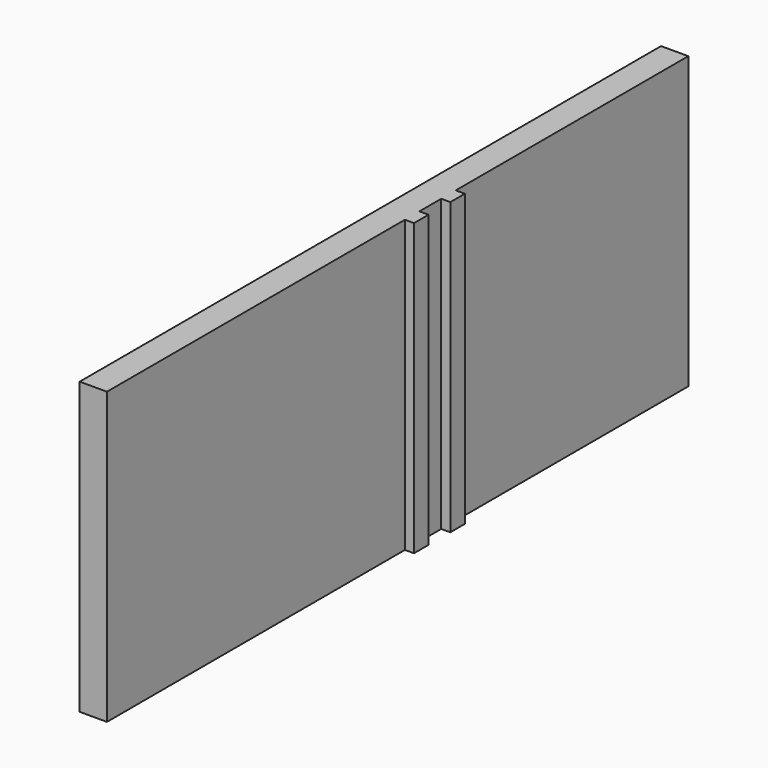
from build123d import *

# Parameters (mm, degrees)
F0_W     = 203.2
F0_H     = 203.2
F0_W_2   = 19.05
F0_W_3   = 12.7
F0_W_4   = 260.35
F1_DEPTH = 19.05
F2_DEPTH = 6.35


with BuildPart() as f1:
    # F0 (on Right) → F1 (new body)
    with BuildSketch(Plane.YZ):
        with Locations((152.4, 0)):
            Rectangle(F0_W, F0_H)
        with Locations((28.575, 0)):
            Rectangle(F0_W_2, F0_H)
        with Locations((12.7, 0)):
            Rectangle(F0_W_3, F0_H)
        with Locations((-123.825, 0)):
            Rectangle(F0_W_4, F0_H)
        with Locations((44.45, 0)):
            Rectangle(F0_W_3, F0_H)
    extrude(amount=-F1_DEPTH)

    # F0 (on Right) → F2 (join)
    with BuildSketch(Plane.YZ):
        with Locations((44.45, 0)):
            Rectangle(F0_W_3, F0_H)
        with Locations((12.7, 0)):
            Rectangle(F0_W_3, F0_H)
    extrude(amount=F2_DEPTH)


solid = f1.part
